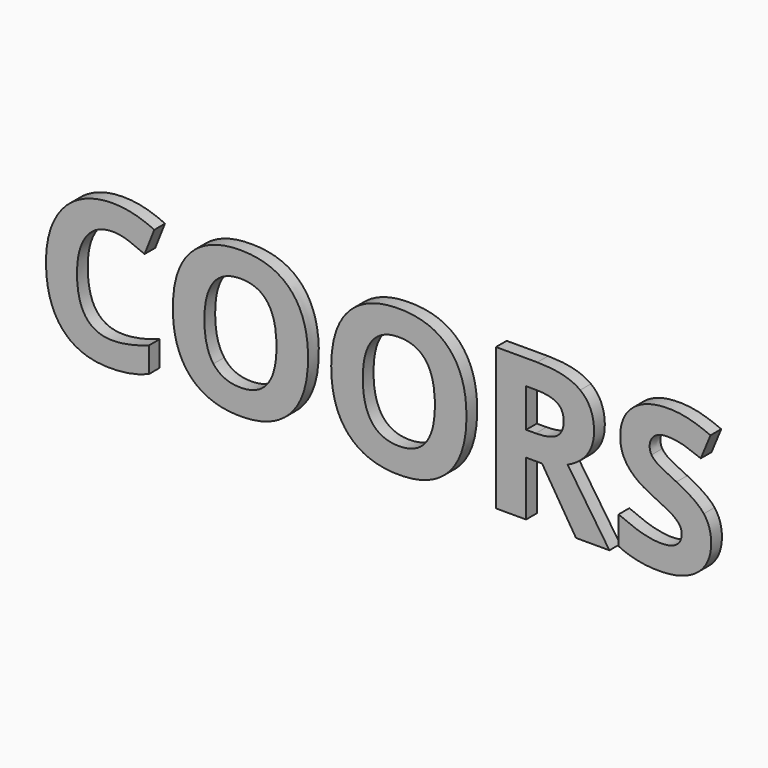
from build123d import *

# Parameters (mm, degrees)
F1_DEPTH = 38.1
F2_DEPTH = 38.1
F3_DEPTH = 38.1


with BuildPart() as f1:
    # F0 (on Front) → F1 (new body)
    with BuildSketch(Plane.XZ):
        with BuildLine():
            add(Edge.make_bspline(
                [(-759.1074275939, 131.759173004), (-807.353884816, 131.759173004), (-833.8144646453, 95.5081786378)],
                knots=[0, 0, 0, 1, 1, 1], degree=2))
            add(Edge.make_bspline(
                [(-714.2126438169, 123.7768980888), (-737.0569444029, 131.759173004), (-759.1074275939, 131.759173004)],
                knots=[0, 0, 0, 1, 1, 1], degree=2))
            add(Edge.make_bspline(
                [(-668.7004465105, 105.0339873764), (-691.368343231, 115.7946231736), (-714.2126438169, 123.7768980888)],
                knots=[0, 0, 0, 1, 1, 1], degree=2))
            Line((-668.7004465105, 105.0339873764), (-641.1814434881, 174.5371103946))
            add(Edge.make_bspline(
                [(-759.1074275939, 202.849930812), (-700.4531423057, 202.849930812), (-641.1814434881, 174.5371103946)],
                knots=[0, 0, 0, 1, 1, 1], degree=2))
            add(Edge.make_bspline(
                [(-859.5694290125, 177.6682790078), (-816.703289689, 202.849930812), (-759.1074275939, 202.849930812)],
                knots=[0, 0, 0, 1, 1, 1], degree=2))
            add(Edge.make_bspline(
                [(-925.3239698883, 105.2103912419), (-902.4355683359, 152.4866272036), (-859.5694290125, 177.6682790078)],
                knots=[0, 0, 0, 1, 1, 1], degree=2))
            add(Edge.make_bspline(
                [(-948.2123714406, -4.9538227807), (-948.2123714406, 57.9341552802), (-925.3239698883, 105.2103912419)],
                knots=[0, 0, 0, 1, 1, 1], degree=2))
            add(Edge.make_bspline(
                [(-901.6417509411, -158.0723780595), (-948.2123714406, -104.7102087371), (-948.2123714406, -4.9538227807)],
                knots=[0, 0, 0, 1, 1, 1], degree=2))
            add(Edge.make_bspline(
                [(-767.1338034755, -211.4345473819), (-855.0711304415, -211.4345473819), (-901.6417509411, -158.0723780595)],
                knots=[0, 0, 0, 1, 1, 1], degree=2))
            add(Edge.make_bspline(
                [(-656.3521759235, -190.7070931823), (-705.9216621371, -211.4345473819), (-767.1338034755, -211.4345473819)],
                knots=[0, 0, 0, 1, 1, 1], degree=2))
            Line((-656.3521759235, -190.7070931823), (-656.3521759235, -119.0871237777))
            add(Edge.make_bspline(
                [(-759.1074275939, -140.2555876411), (-716.6822979343, -140.2555876411), (-656.3521759235, -119.0871237777)],
                knots=[0, 0, 0, 1, 1, 1], degree=2))
            add(Edge.make_bspline(
                [(-860.2750444746, -5.4830343773), (-860.2750444746, -140.2555876411), (-759.1074275939, -140.2555876411)],
                knots=[0, 0, 0, 1, 1, 1], degree=2))
            add(Edge.make_bspline(
                [(-833.8144646453, 95.5081786378), (-860.2750444746, 59.2571842717), (-860.2750444746, -5.4830343773)],
                knots=[0, 0, 0, 1, 1, 1], degree=2))
        make_face()
    extrude(amount=F1_DEPTH)


with BuildPart() as f2:
    # F0 (on Front) → F2 (new body)
    with BuildSketch(Plane.XZ):
        with BuildLine():
            add(Edge.make_bspline(
                [(-204.8464821031, -3.8071976548), (-204.8464821031, -103.9163913423), (-254.460069283, -157.6754693621)],
                knots=[0, 0, 0, 1, 1, 1], degree=2))
            add(Edge.make_bspline(
                [(-254.0631605856, 149.9728721198), (-204.8464821031, 96.4783998982), (-204.8464821031, -3.8071976548)],
                knots=[0, 0, 0, 1, 1, 1], degree=2))
            add(Edge.make_bspline(
                [(-396.1564742688, 203.4673443413), (-303.279839068, 203.4673443413), (-254.0631605856, 149.9728721198)],
                knots=[0, 0, 0, 1, 1, 1], degree=2))
            add(Edge.make_bspline(
                [(-538.7789995487, 150.4138817836), (-489.0331094696, 203.4673443413), (-396.1564742688, 203.4673443413)],
                knots=[0, 0, 0, 1, 1, 1], degree=2))
            add(Edge.make_bspline(
                [(-588.5248896278, -3.2779860582), (-588.5248896278, 97.3604192259), (-538.7789995487, 150.4138817836)],
                knots=[0, 0, 0, 1, 1, 1], degree=2))
            add(Edge.make_bspline(
                [(-538.9113024479, -157.6754693621), (-588.5248896278, -103.9163913423), (-588.5248896278, -3.2779860582)],
                knots=[0, 0, 0, 1, 1, 1], degree=2))
            add(Edge.make_bspline(
                [(-396.6856858654, -211.4345473819), (-489.2977152679, -211.4345473819), (-538.9113024479, -157.6754693621)],
                knots=[0, 0, 0, 1, 1, 1], degree=2))
            add(Edge.make_bspline(
                [(-254.460069283, -157.6754693621), (-304.0736564629, -211.4345473819), (-396.6856858654, -211.4345473819)],
                knots=[0, 0, 0, 1, 1, 1], degree=2))
        make_face()
        with BuildLine():
            add(Edge.make_bspline(
                [(-498.9117259393, -3.8071976548), (-498.9117259393, -71.3698781522), (-473.2890644712, -105.5481270984)],
                knots=[0, 0, 0, 1, 1, 1], degree=2))
            add(Edge.make_bspline(
                [(-473.0244586729, 97.9778327552), (-498.9117259393, 63.6672809099), (-498.9117259393, -3.8071976548)],
                knots=[0, 0, 0, 1, 1, 1], degree=2))
            add(Edge.make_bspline(
                [(-396.1564742688, 132.2883846005), (-447.1371914066, 132.2883846005), (-473.0244586729, 97.9778327552)],
                knots=[0, 0, 0, 1, 1, 1], degree=2))
            add(Edge.make_bspline(
                [(-294.4596457916, -3.8071976548), (-294.4596457916, 132.2883846005), (-396.1564742688, 132.2883846005)],
                knots=[0, 0, 0, 1, 1, 1], degree=2))
            add(Edge.make_bspline(
                [(-396.6856858654, -139.7263760446), (-294.4596457916, -139.7263760446), (-294.4596457916, -3.8071976548)],
                knots=[0, 0, 0, 1, 1, 1], degree=2))
            add(Edge.make_bspline(
                [(-473.2890644712, -105.5481270984), (-447.6664030032, -139.7263760446), (-396.6856858654, -139.7263760446)],
                knots=[0, 0, 0, 1, 1, 1], degree=2))
        make_face(mode=Mode.SUBTRACT)
    extrude(amount=F2_DEPTH)


with BuildPart() as f3:
    # F0 (on Front) → F3 (new body)
    with BuildSketch(Plane.XZ):
        with BuildLine():
            add(Edge.make_bspline(
                [(244.4541633983, -3.8071976548), (244.4541633983, -103.9163913423), (194.8405762184, -157.6754693621)],
                knots=[0, 0, 0, 1, 1, 1], degree=2))
            add(Edge.make_bspline(
                [(195.2374849158, 149.9728721198), (244.4541633983, 96.4783998982), (244.4541633983, -3.8071976548)],
                knots=[0, 0, 0, 1, 1, 1], degree=2))
            add(Edge.make_bspline(
                [(53.1441712325, 203.4673443413), (146.0208064333, 203.4673443413), (195.2374849158, 149.9728721198)],
                knots=[0, 0, 0, 1, 1, 1], degree=2))
            add(Edge.make_bspline(
                [(-89.4783540474, 150.4138817836), (-39.7324639683, 203.4673443413), (53.1441712325, 203.4673443413)],
                knots=[0, 0, 0, 1, 1, 1], degree=2))
            add(Edge.make_bspline(
                [(-139.2242441264, -3.2779860582), (-139.2242441264, 97.3604192259), (-89.4783540474, 150.4138817836)],
                knots=[0, 0, 0, 1, 1, 1], degree=2))
            add(Edge.make_bspline(
                [(-89.6106569465, -157.6754693621), (-139.2242441264, -103.9163913423), (-139.2242441264, -3.2779860582)],
                knots=[0, 0, 0, 1, 1, 1], degree=2))
            add(Edge.make_bspline(
                [(52.6149596359, -211.4345473819), (-39.9970697666, -211.4345473819), (-89.6106569465, -157.6754693621)],
                knots=[0, 0, 0, 1, 1, 1], degree=2))
            add(Edge.make_bspline(
                [(194.8405762184, -157.6754693621), (145.2269890384, -211.4345473819), (52.6149596359, -211.4345473819)],
                knots=[0, 0, 0, 1, 1, 1], degree=2))
        make_face()
        with BuildLine():
            add(Edge.make_bspline(
                [(-49.6110804379, -3.8071976548), (-49.6110804379, -71.3698781522), (-23.9884189699, -105.5481270984)],
                knots=[0, 0, 0, 1, 1, 1], degree=2))
            add(Edge.make_bspline(
                [(-23.7238131716, 97.9778327552), (-49.6110804379, 63.6672809099), (-49.6110804379, -3.8071976548)],
                knots=[0, 0, 0, 1, 1, 1], degree=2))
            add(Edge.make_bspline(
                [(53.1441712325, 132.2883846005), (2.1634540947, 132.2883846005), (-23.7238131716, 97.9778327552)],
                knots=[0, 0, 0, 1, 1, 1], degree=2))
            add(Edge.make_bspline(
                [(154.8409997098, -3.8071976548), (154.8409997098, 132.2883846005), (53.1441712325, 132.2883846005)],
                knots=[0, 0, 0, 1, 1, 1], degree=2))
            add(Edge.make_bspline(
                [(52.6149596359, -139.7263760446), (154.8409997098, -139.7263760446), (154.8409997098, -3.8071976548)],
                knots=[0, 0, 0, 1, 1, 1], degree=2))
            add(Edge.make_bspline(
                [(-23.9884189699, -105.5481270984), (1.6342424982, -139.7263760446), (52.6149596359, -139.7263760446)],
                knots=[0, 0, 0, 1, 1, 1], degree=2))
        make_face(mode=Mode.SUBTRACT)
        with BuildLine():
            Line((413.4490665747, -205.8778256178), (413.4490665747, -51.259837482))
            Line((413.4490665747, -51.259837482), (458.8730619483, -51.259837482))
            Line((458.8730619483, -51.259837482), (555.1013705942, -205.8778256178))
            Line((555.1013705942, -205.8778256178), (649.9184483158, -205.8778256178))
            add(Edge.make_bspline(
                [(531.3750506806, -30.2677774841), (622.3994452933, -166.1869558739), (649.9184483158, -205.8778256178)],
                knots=[0, 0, 0, 1, 1, 1], degree=2))
            add(Edge.make_bspline(
                [(586.8099654229, 13.127573436), (567.2732373156, -14.567833452), (531.3750506806, -30.2677774841)],
                knots=[0, 0, 0, 1, 1, 1], degree=2))
            add(Edge.make_bspline(
                [(606.3466935302, 76.368359228), (606.3466935302, 40.822980324), (586.8099654229, 13.127573436)],
                knots=[0, 0, 0, 1, 1, 1], degree=2))
            add(Edge.make_bspline(
                [(566.964530551, 167.2163499752), (606.3466935302, 137.3158947681), (606.3466935302, 76.368359228)],
                knots=[0, 0, 0, 1, 1, 1], degree=2))
            add(Edge.make_bspline(
                [(445.3781662354, 197.1168051823), (527.5823675717, 197.1168051823), (566.964530551, 167.2163499752)],
                knots=[0, 0, 0, 1, 1, 1], degree=2))
            Line((445.3781662354, 197.1168051823), (327.9813937261, 197.1168051823))
            Line((327.9813937261, 197.1168051823), (327.9813937261, -205.8778256178))
            Line((327.9813937261, -205.8778256178), (413.4490665747, -205.8778256178))
        make_face()
        with BuildLine():
            Line((440.9680695971, 18.2432855363), (413.4490665747, 18.2432855363))
            Line((413.4490665747, 18.2432855363), (413.4490665747, 127.0844705674))
            Line((413.4490665747, 127.0844705674), (439.3804348074, 127.0844705674))
            add(Edge.make_bspline(
                [(500.3720713139, 114.9567048124), (480.6589393411, 127.0844705674), (439.3804348074, 127.0844705674)],
                knots=[0, 0, 0, 1, 1, 1], degree=2))
            add(Edge.make_bspline(
                [(520.0852032867, 74.1633109089), (520.0852032867, 102.8289390573), (500.3720713139, 114.9567048124)],
                knots=[0, 0, 0, 1, 1, 1], degree=2))
            add(Edge.make_bspline(
                [(500.8130809777, 31.7381812492), (520.0852032867, 45.2330769622), (520.0852032867, 74.1633109089)],
                knots=[0, 0, 0, 1, 1, 1], degree=2))
            add(Edge.make_bspline(
                [(440.9680695971, 18.2432855363), (481.5409586687, 18.2432855363), (500.8130809777, 31.7381812492)],
                knots=[0, 0, 0, 1, 1, 1], degree=2))
        make_face(mode=Mode.SUBTRACT)
        with BuildLine():
            add(Edge.make_bspline(
                [(938.5151723206, -93.9495729399), (938.5151723206, -148.546569321), (899.2212112741, -179.9905583515)],
                knots=[0, 0, 0, 1, 1, 1], degree=2))
            add(Edge.make_bspline(
                [(917.5672132891, -27.4012146692), (938.5151723206, -54.5233089942), (938.5151723206, -93.9495729399)],
                knots=[0, 0, 0, 1, 1, 1], degree=2))
            add(Edge.make_bspline(
                [(840.0818153556, 26.7988730144), (896.6192542575, -0.2791203442), (917.5672132891, -27.4012146692)],
                knots=[0, 0, 0, 1, 1, 1], degree=2))
            add(Edge.make_bspline(
                [(785.9699296047, 55.023491499), (797.3920798977, 47.173519483), (840.0818153556, 26.7988730144)],
                knots=[0, 0, 0, 1, 1, 1], degree=2))
            add(Edge.make_bspline(
                [(769.2997643123, 71.296748094), (774.5477793117, 62.873463515), (785.9699296047, 55.023491499)],
                knots=[0, 0, 0, 1, 1, 1], degree=2))
            add(Edge.make_bspline(
                [(764.0517493128, 91.0098800668), (764.0517493128, 79.720032673), (769.2997643123, 71.296748094)],
                knots=[0, 0, 0, 1, 1, 1], degree=2))
            add(Edge.make_bspline(
                [(777.0174334291, 120.4693256101), (764.0517493128, 109.1794782163), (764.0517493128, 91.0098800668)],
                knots=[0, 0, 0, 1, 1, 1], degree=2))
            add(Edge.make_bspline(
                [(814.2386490557, 131.759173004), (789.9831175455, 131.759173004), (777.0174334291, 120.4693256101)],
                knots=[0, 0, 0, 1, 1, 1], degree=2))
            add(Edge.make_bspline(
                [(855.6935574549, 126.5111580045), (834.6132955242, 131.759173004), (814.2386490557, 131.759173004)],
                knots=[0, 0, 0, 1, 1, 1], degree=2))
            add(Edge.make_bspline(
                [(909.0557267773, 108.0328530904), (876.7738193856, 121.263143005), (855.6935574549, 126.5111580045)],
                knots=[0, 0, 0, 1, 1, 1], degree=2))
            Line((909.0557267773, 108.0328530904), (936.5747297998, 174.5371103946))
            add(Edge.make_bspline(
                [(876.9061222847, 195.4409684598), (905.439447534, 188.0320061076), (936.5747297998, 174.5371103946)],
                knots=[0, 0, 0, 1, 1, 1], degree=2))
            add(Edge.make_bspline(
                [(816.9729089714, 202.849930812), (848.3727970355, 202.849930812), (876.9061222847, 195.4409684598)],
                knots=[0, 0, 0, 1, 1, 1], degree=2))
            add(Edge.make_bspline(
                [(716.7755133511, 172.2879611092), (753.0265077172, 202.849930812), (816.9729089714, 202.849930812)],
                knots=[0, 0, 0, 1, 1, 1], degree=2))
            add(Edge.make_bspline(
                [(680.524518985, 88.1874182184), (680.524518985, 141.7259914063), (716.7755133511, 172.2879611092)],
                knots=[0, 0, 0, 1, 1, 1], degree=2))
            add(Edge.make_bspline(
                [(691.5497605805, 38.6179320049), (680.524518985, 59.8745978011), (680.524518985, 88.1874182184)],
                knots=[0, 0, 0, 1, 1, 1], degree=2))
            add(Edge.make_bspline(
                [(721.0533070902, 1.3967163783), (702.5750021761, 17.3612662087), (691.5497605805, 38.6179320049)],
                knots=[0, 0, 0, 1, 1, 1], degree=2))
            add(Edge.make_bspline(
                [(776.4000198998, -31.9436142066), (739.5316120043, -14.567833452), (721.0533070902, 1.3967163783)],
                knots=[0, 0, 0, 1, 1, 1], degree=2))
            add(Edge.make_bspline(
                [(828.6596650626, -59.2421123971), (815.8262838454, -50.7306258854), (776.4000198998, -31.9436142066)],
                knots=[0, 0, 0, 1, 1, 1], degree=2))
            add(Edge.make_bspline(
                [(848.1081912372, -77.0148018491), (841.4930462798, -67.7535989089), (828.6596650626, -59.2421123971)],
                knots=[0, 0, 0, 1, 1, 1], degree=2))
            add(Edge.make_bspline(
                [(854.7233361945, -98.0950637798), (854.7233361945, -86.2760047894), (848.1081912372, -77.0148018491)],
                knots=[0, 0, 0, 1, 1, 1], degree=2))
            add(Edge.make_bspline(
                [(839.6849066582, -130.0682644069), (854.7233361945, -119.351729576), (854.7233361945, -98.0950637798)],
                knots=[0, 0, 0, 1, 1, 1], degree=2))
            add(Edge.make_bspline(
                [(796.5982625028, -140.7847992377), (824.6464771219, -140.7847992377), (839.6849066582, -130.0682644069)],
                knots=[0, 0, 0, 1, 1, 1], degree=2))
            add(Edge.make_bspline(
                [(744.8678289365, -133.3758368855), (773.1365483875, -140.7847992377), (796.5982625028, -140.7847992377)],
                knots=[0, 0, 0, 1, 1, 1], degree=2))
            add(Edge.make_bspline(
                [(675.8498165485, -107.7090744511), (716.5991094856, -125.9668745333), (744.8678289365, -133.3758368855)],
                knots=[0, 0, 0, 1, 1, 1], degree=2))
            Line((675.8498165485, -107.7090744511), (675.8498165485, -187.090813939))
            add(Edge.make_bspline(
                [(789.9831175455, -211.4345473819), (725.419302762, -211.4345473819), (675.8498165485, -187.090813939)],
                knots=[0, 0, 0, 1, 1, 1], degree=2))
            add(Edge.make_bspline(
                [(899.2212112741, -179.9905583515), (859.9272502276, -211.4345473819), (789.9831175455, -211.4345473819)],
                knots=[0, 0, 0, 1, 1, 1], degree=2))
        make_face()
    extrude(amount=F3_DEPTH)


solid = Compound([f1.part, f2.part, f3.part])
